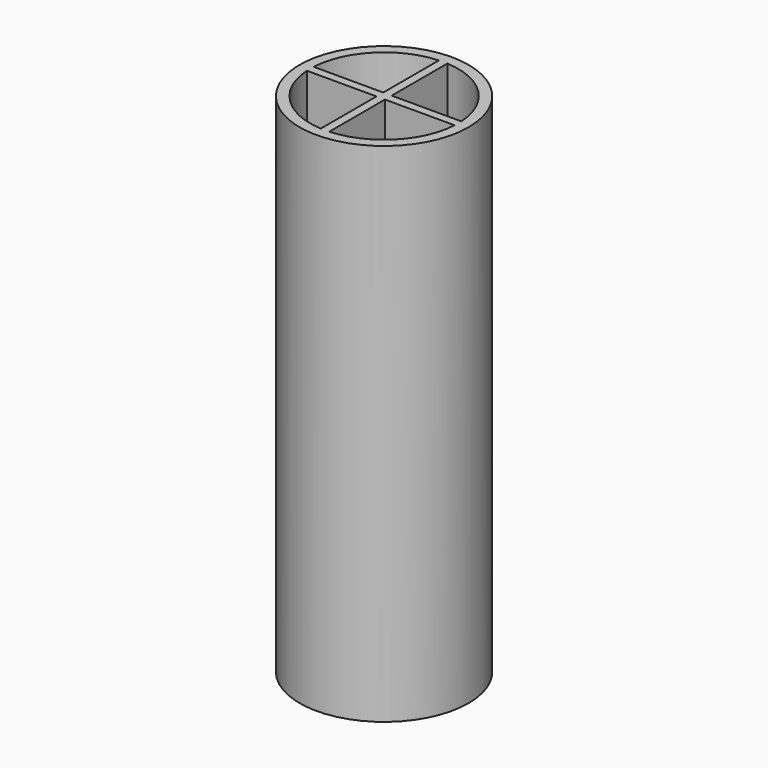
from build123d import *

# Parameters (mm, degrees)
F0_R     = 12.7
F0_W     = 1.27
F0_H     = 1.27
F1_DEPTH = 38.1


with BuildPart() as f1:
    # F0 (on Top) → F1 (new body, symmetric)
    with BuildSketch(Plane.XY):
        Circle(F0_R)
        with BuildLine():
            Line((11.1125, 0.635), (11.1125, 0))
            Line((11.1125, 0), (11.1125, -0.635))
            Line((11.1125, -0.635), (11.0943423081, -0.635))
            ThreePointArc((11.0943423081, -0.635), (7.8577241059, -7.8577241059), (0.635, -11.0943423081))
            Line((0.635, -11.0943423081), (0.635, -11.1125))
            Line((0.635, -11.1125), (0, -11.1125))
            Line((0, -11.1125), (-0.635, -11.1125))
            Line((-0.635, -11.1125), (-0.635, -11.0943423081))
            ThreePointArc((-0.635, -11.0943423081), (-7.8577241059, -7.8577241059), (-11.0943423081, -0.635))
            Line((-11.0943423081, -0.635), (-11.1125, -0.635))
            Line((-11.1125, -0.635), (-11.1125, 0))
            Line((-11.1125, 0), (-11.1125, 0.635))
            Line((-11.1125, 0.635), (-11.0943423081, 0.635))
            ThreePointArc((-11.0943423081, 0.635), (-7.8577241059, 7.8577241059), (-0.635, 11.0943423081))
            Line((-0.635, 11.0943423081), (-0.635, 11.1125))
            Line((-0.635, 11.1125), (0, 11.1125))
            Line((0, 11.1125), (0.635, 11.1125))
            Line((0.635, 11.1125), (0.635, 11.0943423081))
            ThreePointArc((0.635, 11.0943423081), (7.8577241059, 7.8577241059), (11.0943423081, 0.635))
            Line((11.0943423081, 0.635), (11.1125, 0.635))
        make_face(mode=Mode.SUBTRACT)
        with BuildLine():
            Line((-0.635, -0.635), (-0.635, 0.635))
            Line((-0.635, 0.635), (-11.0943423081, 0.635))
            ThreePointArc((-11.0943423081, 0.635), (-11.1079596495, 0.3176297773), (-11.1125, 0))
            ThreePointArc((-11.1125, 0), (-11.1079596495, -0.3176297773), (-11.0943423081, -0.635))
            Line((-11.0943423081, -0.635), (-0.635, -0.635))
        make_face()
        with BuildLine():
            Line((0.635, 0.635), (0.635, 11.0943423081))
            ThreePointArc((0.635, 11.0943423081), (0.3176297773, 11.1079596495), (0, 11.1125))
            ThreePointArc((0, 11.1125), (-0.3176297773, 11.1079596495), (-0.635, 11.0943423081))
            Line((-0.635, 11.0943423081), (-0.635, 0.635))
            Line((-0.635, 0.635), (0.635, 0.635))
        make_face()
        with BuildLine():
            ThreePointArc((0, -11.1125), (0.3176297773, -11.1079596495), (0.635, -11.0943423081))
            Line((0.635, -11.0943423081), (0.635, -0.635))
            Line((0.635, -0.635), (-0.635, -0.635))
            Line((-0.635, -0.635), (-0.635, -11.0943423081))
            ThreePointArc((-0.635, -11.0943423081), (-0.3176297773, -11.1079596495), (0, -11.1125))
        make_face()
        with BuildLine():
            ThreePointArc((11.0943423081, -0.635), (11.1079596495, -0.3176297773), (11.1125, 0))
            ThreePointArc((11.1125, 0), (11.1079596495, 0.3176297773), (11.0943423081, 0.635))
            Line((11.0943423081, 0.635), (0.635, 0.635))
            Line((0.635, 0.635), (0.635, -0.635))
            Line((0.635, -0.635), (11.0943423081, -0.635))
        make_face()
        Rectangle(F0_W, F0_H)
        with BuildLine():
            ThreePointArc((-0.635, 11.0943423081), (-0.3176297773, 11.1079596495), (0, 11.1125))
            Line((0, 11.1125), (-0.635, 11.1125))
            Line((-0.635, 11.1125), (-0.635, 11.0943423081))
        make_face()
        with BuildLine():
            ThreePointArc((0, 11.1125), (0.3176297773, 11.1079596495), (0.635, 11.0943423081))
            Line((0.635, 11.0943423081), (0.635, 11.1125))
            Line((0.635, 11.1125), (0, 11.1125))
        make_face()
        with BuildLine():
            ThreePointArc((-11.1125, 0), (-11.1079596495, 0.3176297773), (-11.0943423081, 0.635))
            Line((-11.0943423081, 0.635), (-11.1125, 0.635))
            Line((-11.1125, 0.635), (-11.1125, 0))
        make_face()
        with BuildLine():
            Line((-11.1125, -0.635), (-11.0943423081, -0.635))
            ThreePointArc((-11.0943423081, -0.635), (-11.1079596495, -0.3176297773), (-11.1125, 0))
            Line((-11.1125, 0), (-11.1125, -0.635))
        make_face()
        with BuildLine():
            Line((11.1125, -0.635), (11.1125, 0))
            ThreePointArc((11.1125, 0), (11.1079596495, -0.3176297773), (11.0943423081, -0.635))
            Line((11.0943423081, -0.635), (11.1125, -0.635))
        make_face()
        with BuildLine():
            ThreePointArc((11.0943423081, 0.635), (11.1079596495, 0.3176297773), (11.1125, 0))
            Line((11.1125, 0), (11.1125, 0.635))
            Line((11.1125, 0.635), (11.0943423081, 0.635))
        make_face()
        with BuildLine():
            Line((0.635, -11.1125), (0.635, -11.0943423081))
            ThreePointArc((0.635, -11.0943423081), (0.3176297773, -11.1079596495), (0, -11.1125))
            Line((0, -11.1125), (0.635, -11.1125))
        make_face()
        with BuildLine():
            Line((-0.635, -11.1125), (0, -11.1125))
            ThreePointArc((0, -11.1125), (-0.3176297773, -11.1079596495), (-0.635, -11.0943423081))
            Line((-0.635, -11.0943423081), (-0.635, -11.1125))
        make_face()
    extrude(amount=F1_DEPTH, both=True)


solid = f1.part
